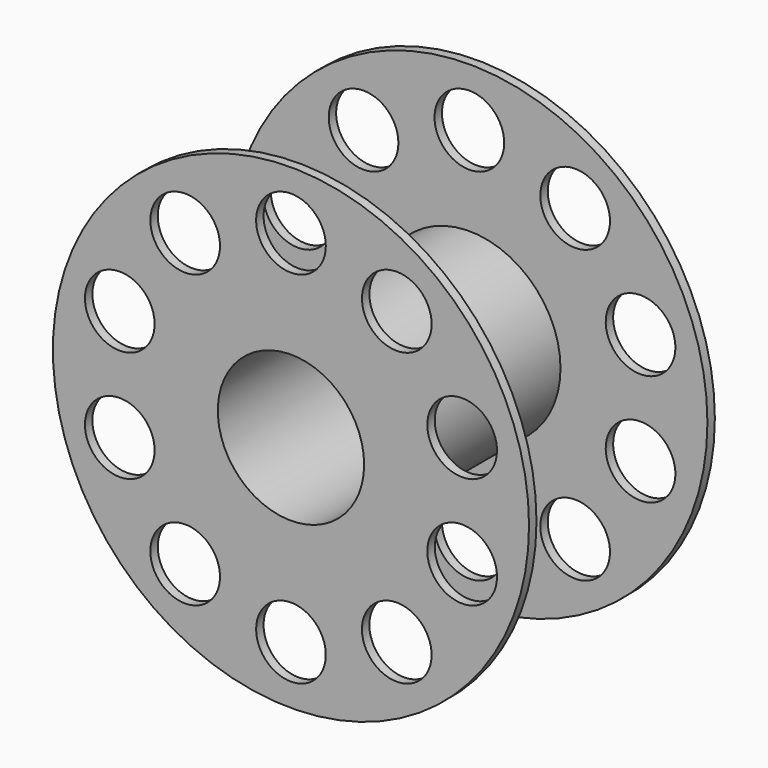
from build123d import *

# Parameters (mm, degrees)
F0_R     = 10.25
F0_R_2   = 3.925
F0_R_3   = 3.15
F1_DEPTH = 5
F2_DEPTH = 4.6
F3_R     = 1.5
F4_DEPTH = 12.5
F5_COUNT = 10
F5_ANGLE = 324


with BuildPart() as f1:
    # F0 (on Front) → F1 (new body, symmetric)
    with BuildSketch(Plane.XZ):
        Circle(F0_R)
        Circle(F0_R_2, mode=Mode.SUBTRACT)
        Circle(F0_R_2)
        Circle(F0_R_3, mode=Mode.SUBTRACT)
    extrude(amount=F1_DEPTH, both=True)

    # F0 (on Front) → F2 (cut, symmetric)
    with BuildSketch(Plane.XZ):
        Circle(F0_R)
        Circle(F0_R_2, mode=Mode.SUBTRACT)
    extrude(amount=F2_DEPTH, both=True, mode=Mode.SUBTRACT)


with BuildPart() as f4:
    # F3 (on face) → F4 (new body, symmetric)
    with BuildSketch(Plane.XZ.offset(5)):
        with Locations((0, 7.75)):
            Circle(F3_R)
    extrude(amount=F4_DEPTH, both=True)


with BuildPart() as f5_1:
    # F5: instance of F4
    add(f4.part.rotate(Axis((0, -5, 0), (0, -1, 0)), 1 * F5_ANGLE / (F5_COUNT - 1)))


with BuildPart() as f5_2:
    # F5: instance of F4
    add(f4.part.rotate(Axis((0, -5, 0), (0, -1, 0)), 2 * F5_ANGLE / (F5_COUNT - 1)))


with BuildPart() as f5_3:
    # F5: instance of F4
    add(f4.part.rotate(Axis((0, -5, 0), (0, -1, 0)), 3 * F5_ANGLE / (F5_COUNT - 1)))


with BuildPart() as f5_4:
    # F5: instance of F4
    add(f4.part.rotate(Axis((0, -5, 0), (0, -1, 0)), 4 * F5_ANGLE / (F5_COUNT - 1)))


with BuildPart() as f5_5:
    # F5: instance of F4
    add(f4.part.rotate(Axis((0, -5, 0), (0, -1, 0)), 5 * F5_ANGLE / (F5_COUNT - 1)))


with BuildPart() as f5_6:
    # F5: instance of F4
    add(f4.part.rotate(Axis((0, -5, 0), (0, -1, 0)), 6 * F5_ANGLE / (F5_COUNT - 1)))


with BuildPart() as f5_7:
    # F5: instance of F4
    add(f4.part.rotate(Axis((0, -5, 0), (0, -1, 0)), 7 * F5_ANGLE / (F5_COUNT - 1)))


with BuildPart() as f5_8:
    # F5: instance of F4
    add(f4.part.rotate(Axis((0, -5, 0), (0, -1, 0)), 8 * F5_ANGLE / (F5_COUNT - 1)))


with BuildPart() as f5_9:
    # F5: instance of F4
    add(f4.part.rotate(Axis((0, -5, 0), (0, -1, 0)), 9 * F5_ANGLE / (F5_COUNT - 1)))


with BuildPart() as f1_1:
    add(f1.part)

    # F6: cut F4, F5_1, F5_2, F5_3, F5_4, F5_5, F5_6, F5_7, F5_8, F5_9
    add(f4.part, mode=Mode.SUBTRACT)
    add(f5_1.part, mode=Mode.SUBTRACT)
    add(f5_2.part, mode=Mode.SUBTRACT)
    add(f5_3.part, mode=Mode.SUBTRACT)
    add(f5_4.part, mode=Mode.SUBTRACT)
    add(f5_5.part, mode=Mode.SUBTRACT)
    add(f5_6.part, mode=Mode.SUBTRACT)
    add(f5_7.part, mode=Mode.SUBTRACT)
    add(f5_8.part, mode=Mode.SUBTRACT)
    add(f5_9.part, mode=Mode.SUBTRACT)


solid = f1_1.part
